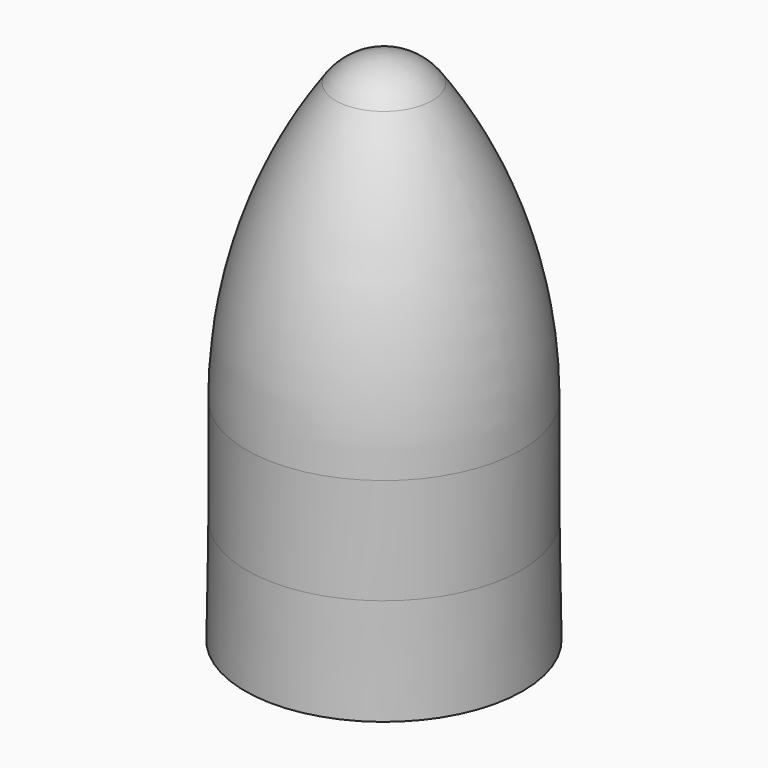
from build123d import *


with BuildPart() as f1:
    # F0 (on Front) → F1 (revolve)
    with BuildSketch(Plane.XZ):
        with BuildLine():
            Line((11.75, 9.998875), (11.9, 0))
            Line((11.9, 0), (13.099745, 0.026002))
            Line((13.099745, 0.026002), (12.95, 10.007875))
            Line((12.95, 10.007875), (12.95, 19.998875))
            ThreePointArc((12.95, 19.998875), (10.799679, 33.801808), (4.552519, 46.296521))
            ThreePointArc((4.552519, 46.296521), (2.561355, 48.023493), (0, 48.645291))
            Line((0, 48.645291), (0, 31.526839))
            Line((0, 31.526839), (10.75, 19.998875))
            Line((10.75, 19.998875), (11.75, 19.998875))
            Line((11.75, 19.998875), (11.75, 9.998875))
        make_face()
    revolve(axis=Axis((0, 0, 25), (0, 0, 1)))


solid = f1.part
